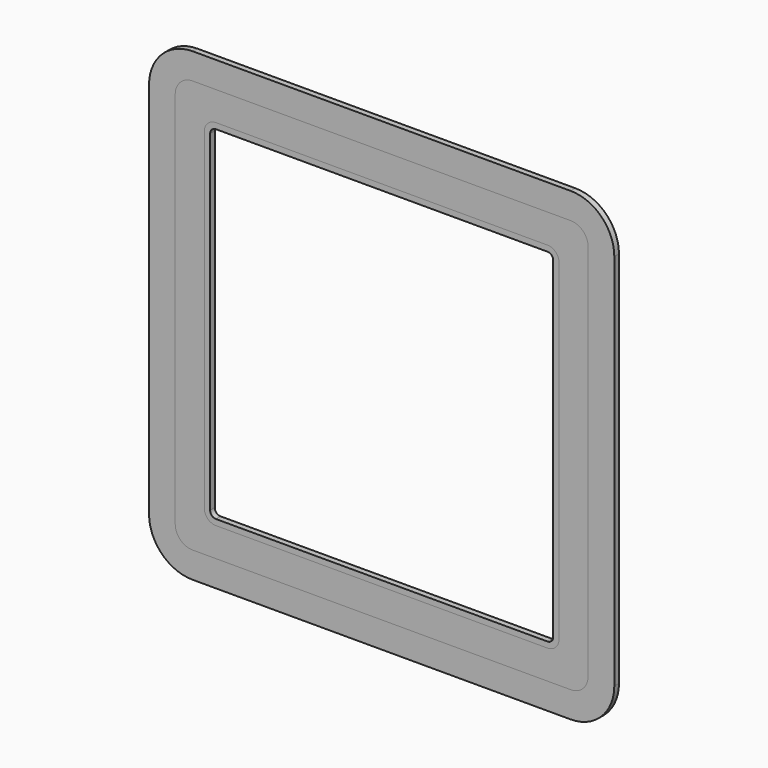
from build123d import *

# Parameters (mm, degrees)
F1_DEPTH = 2.54
F2_DEPTH = 2.54


with BuildPart() as f1:
    # F0 (on Front) → F1 (new body)
    with BuildSketch(Plane.XZ):
        with BuildLine():
            ThreePointArc((-82.55, 120.65), (-96.020384, 115.070384), (-101.6, 101.6))
            Line((-101.6, 101.6), (-101.6, 54.021736))
            Line((-101.6, 54.021736), (-101.6, -15.921711))
            Line((-101.6, -15.921711), (-101.6, -63.5))
            ThreePointArc((-101.6, -63.5), (-96.020384, -76.970384), (-82.55, -82.55))
            Line((-82.55, -82.55), (-41.275, -82.55))
            Line((-41.275, -82.55), (41.275, -82.55))
            Line((41.275, -82.55), (82.55, -82.55))
            ThreePointArc((82.55, -82.55), (96.020384, -76.970384), (101.6, -63.5))
            Line((101.6, -63.5), (101.6, 101.6))
            ThreePointArc((101.6, 101.6), (96.020384, 115.070384), (82.55, 120.65))
            Line((82.55, 120.65), (-82.55, 120.65))
        make_face()
        with BuildLine():
            ThreePointArc((-90.170003, 101.6), (-87.938156, 106.988156), (-82.55, 109.220003))
            Line((-82.55, 109.220003), (82.55, 109.220003))
            ThreePointArc((82.55, 109.220003), (87.938156, 106.988156), (90.170003, 101.6))
            Line((90.170003, 101.6), (90.170003, -63.5))
            ThreePointArc((90.170003, -63.5), (87.938156, -68.888156), (82.55, -71.120003))
            Line((82.55, -71.120003), (41.275, -71.120003))
            Line((41.275, -71.120003), (-41.275, -71.120003))
            Line((-41.275, -71.120003), (-82.55, -71.120003))
            ThreePointArc((-82.55, -71.120003), (-87.938156, -68.888156), (-90.170003, -63.5))
            Line((-90.170003, -63.5), (-90.170003, -15.921711))
            Line((-90.170003, -15.921711), (-90.170003, 54.021736))
            Line((-90.170003, 54.021736), (-90.170003, 101.6))
        make_face(mode=Mode.SUBTRACT)
        with BuildLine():
            Line((77.469999, -53.34), (77.469999, 91.44))
            ThreePointArc((77.469999, 91.44), (75.982102, 95.032102), (72.39, 96.519999))
            Line((72.39, 96.519999), (-72.39, 96.519999))
            ThreePointArc((-72.39, 96.519999), (-75.982102, 95.032102), (-77.469999, 91.44))
            Line((-77.469999, 91.44), (-77.469999, -53.34))
            ThreePointArc((-77.469999, -53.34), (-75.982102, -56.932102), (-72.39, -58.419999))
            Line((-72.39, -58.419999), (72.39, -58.419999))
            ThreePointArc((72.39, -58.419999), (75.982102, -56.932102), (77.469999, -53.34))
        make_face()
        with BuildLine():
            Line((-72.39, 93.98), (72.39, 93.98))
            ThreePointArc((72.39, 93.98), (74.186051, 93.236051), (74.93, 91.44))
            Line((74.93, 91.44), (74.93, -53.34))
            ThreePointArc((74.93, -53.34), (74.186051, -55.136051), (72.39, -55.88))
            Line((72.39, -55.88), (-72.39, -55.88))
            ThreePointArc((-72.39, -55.88), (-74.186051, -55.136051), (-74.93, -53.34))
            Line((-74.93, -53.34), (-74.93, 91.44))
            ThreePointArc((-74.93, 91.44), (-74.186051, 93.236051), (-72.39, 93.98))
        make_face(mode=Mode.SUBTRACT)
    extrude(amount=F1_DEPTH)


with BuildPart() as f2:
    # F0 (on Front) → F2 (new body)
    with BuildSketch(Plane.XZ):
        with BuildLine():
            Line((82.55, 109.220003), (-82.55, 109.220003))
            ThreePointArc((-82.55, 109.220003), (-87.938156, 106.988156), (-90.170003, 101.6))
            Line((-90.170003, 101.6), (-90.170003, 54.021736))
            Line((-90.170003, 54.021736), (-90.170003, -15.921711))
            Line((-90.170003, -15.921711), (-90.170003, -63.5))
            ThreePointArc((-90.170003, -63.5), (-87.938156, -68.888156), (-82.55, -71.120003))
            Line((-82.55, -71.120003), (-41.275, -71.120003))
            Line((-41.275, -71.120003), (41.275, -71.120003))
            Line((41.275, -71.120003), (82.55, -71.120003))
            ThreePointArc((82.55, -71.120003), (87.938156, -68.888156), (90.170003, -63.5))
            Line((90.170003, -63.5), (90.170003, 101.6))
            ThreePointArc((90.170003, 101.6), (87.938156, 106.988156), (82.55, 109.220003))
        make_face()
        with BuildLine():
            ThreePointArc((72.39, 96.519999), (75.982102, 95.032102), (77.469999, 91.44))
            Line((77.469999, 91.44), (77.469999, -53.34))
            ThreePointArc((77.469999, -53.34), (75.982102, -56.932102), (72.39, -58.419999))
            Line((72.39, -58.419999), (-72.39, -58.419999))
            ThreePointArc((-72.39, -58.419999), (-75.982102, -56.932102), (-77.469999, -53.34))
            Line((-77.469999, -53.34), (-77.469999, 91.44))
            ThreePointArc((-77.469999, 91.44), (-75.982102, 95.032102), (-72.39, 96.519999))
            Line((-72.39, 96.519999), (72.39, 96.519999))
        make_face(mode=Mode.SUBTRACT)
    extrude(amount=F2_DEPTH)


solid = Compound([f1.part, f2.part])
